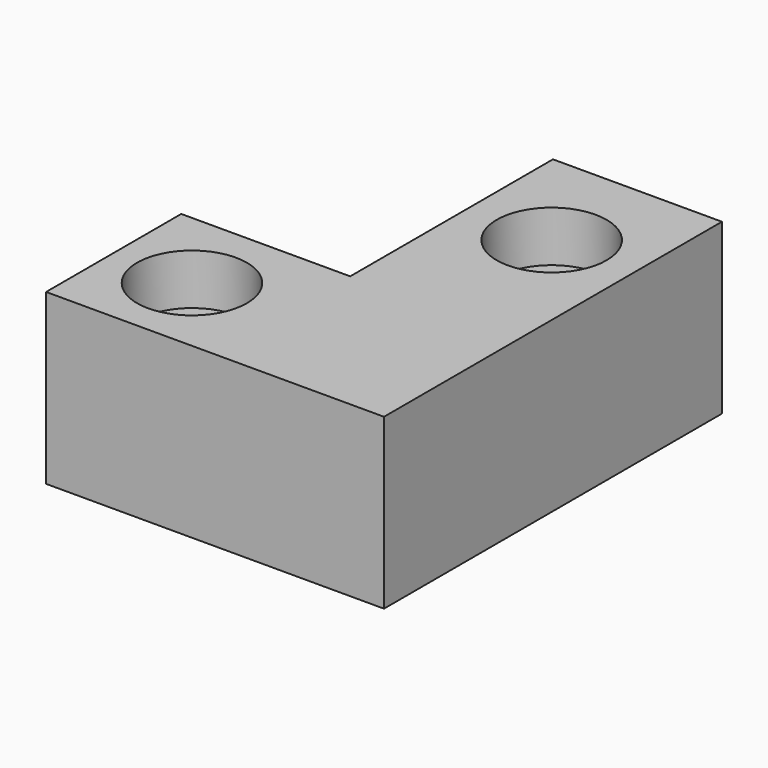
from build123d import *

# Parameters (mm, degrees)
F0_W           = 10
F0_H           = 10
F1_DEPTH       = 25
F2_W           = 10
F2_H           = 10
F3_DEPTH       = 10
F5_D           = 3.3
F5_CBORE_D     = 6.5
F5_CBORE_DEPTH = 3


with BuildPart() as f1:
    # F0 (on Front) → F1 (new body)
    with BuildSketch(Plane.XZ):
        Rectangle(F0_W, F0_H)
    extrude(amount=F1_DEPTH)

    # F2 (on face) → F3 (join)
    with BuildSketch(Plane(origin=(-5, 0, 0), x_dir=(0, -1, 0), z_dir=(-1, 0, 0))):
        with Locations((20, 0)):
            Rectangle(F2_W, F2_H)
    extrude(amount=F3_DEPTH)

    # F5 (through all)
    with Locations(Plane.XY.offset(5)):
        with Locations((0, -6.3472618349), (-10.296119377, -20.085208118)):
            CounterBoreHole(F5_D / 2, F5_CBORE_D / 2, F5_CBORE_DEPTH)


solid = f1.part
